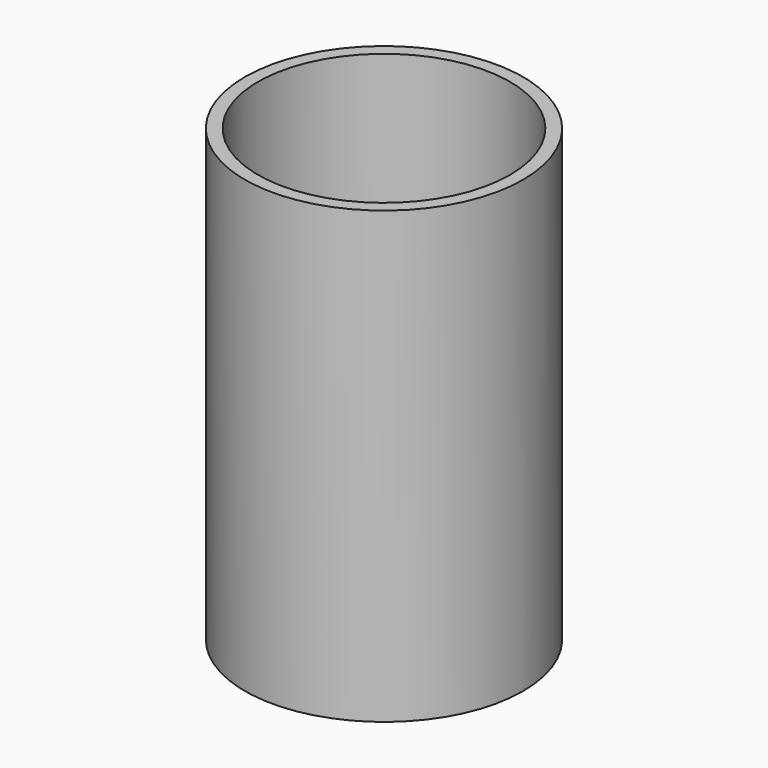
from build123d import *

# Parameters (mm, degrees)
F0_R     = 85
F0_R_2   = 77
F1_DEPTH = 315
F3_R     = 77
F3_R_2   = 85
F4_DEPTH = 40


with BuildPart() as f1:
    # F0 (on Top) → F1 (new body)
    with BuildSketch(Plane.XY):
        Circle(F0_R)
        Circle(F0_R_2, mode=Mode.SUBTRACT)
    extrude(amount=F1_DEPTH)

    # F3 (on face) → F4 (cut)
    with BuildSketch(Plane.XY.offset(315)):
        Circle(F3_R)
        Circle(F3_R_2)
        Circle(F3_R, mode=Mode.SUBTRACT)
    extrude(amount=-F4_DEPTH, mode=Mode.SUBTRACT)


solid = f1.part
